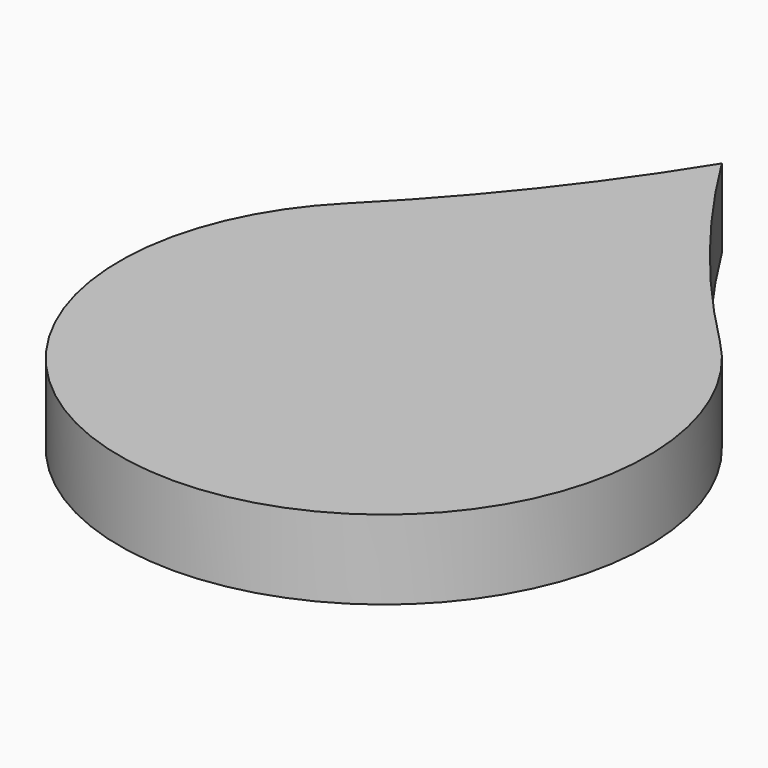
from build123d import *

# Parameters (mm, degrees)
F1_DEPTH = 3


with BuildPart() as f1:
    # F0 (on Top) → F1 (new body)
    with BuildSketch(Plane.XY):
        with BuildLine():
            ThreePointArc((0, 16), (-3.284221, 11.328789), (-7.079625, 7.0625))
            ThreePointArc((-7.079625, 7.0625), (0, -10), (7.079625, 7.0625))
            ThreePointArc((7.079625, 7.0625), (3.284221, 11.328789), (0, 16))
        make_face()
    extrude(amount=F1_DEPTH)


solid = f1.part
